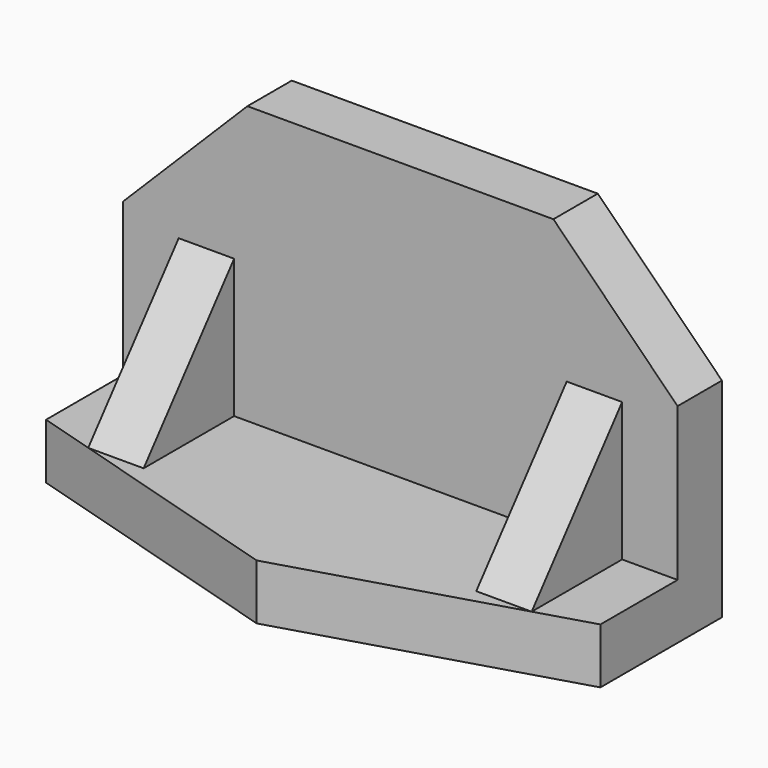
from build123d import *

# Parameters (mm, degrees)
F0_W      = 127
F0_H      = 76.2
F1_DEPTH  = 53.848
F2_W      = 41.148
F2_H      = 63.5
F3_DEPTH  = 127
F5_DEPTH  = 12.7
F7_DEPTH  = 12.7
F8_W      = 12.7
F8_H      = 25.908
F9_DEPTH  = 31.75
F11_DEPTH = 12.7
F13_DEPTH = 12.7


with BuildPart() as f1:
    # F0 (on Front) → F1 (new body)
    with BuildSketch(Plane.XZ):
        with Locations((-17.504597, -0.584449)):
            Rectangle(F0_W, F0_H)
    extrude(amount=F1_DEPTH)

    # F2 (on face) → F3 (cut)
    with BuildSketch(Plane.YZ.offset(45.995403)):
        with Locations((-33.274, 5.765551)):
            Rectangle(F2_W, F2_H)
    extrude(amount=-F3_DEPTH, mode=Mode.SUBTRACT)

    # F4 (on face) → F5 (cut)
    with BuildSketch(Plane.XZ.offset(12.7)):
        Polygon((45.995403, 9.067551), (45.995403, 37.515551), (17.547403, 37.515551), align=None)
        Polygon((-52.556597, 37.515551), (-81.004597, 37.515551), (-81.004597, 9.067551), align=None)
    extrude(amount=-F5_DEPTH, mode=Mode.SUBTRACT)

    # F6 (on face) → F7 (cut)
    with BuildSketch(Plane.XY.offset(-25.984449)):
        Polygon((45.995403, -34.798), (-17.504597, -53.848), (45.995403, -53.848), align=None)
        Polygon((-81.004597, -53.848), (-17.504597, -53.848), (-81.004597, -34.798), align=None)
    extrude(amount=-F7_DEPTH, mode=Mode.SUBTRACT)

    # F8 (on face) → F9 (join)
    with BuildSketch(Plane.XY.offset(-25.984449)):
        with Locations((26.945403, -25.654)):
            Rectangle(F8_W, F8_H)
        with Locations((-61.954597, -25.654)):
            Rectangle(F8_W, F8_H)
    extrude(amount=F9_DEPTH)

    # F10 (on face) → F11 (cut)
    with BuildSketch(Plane.YZ.offset(-55.604597)):
        Polygon((-38.608, -25.984449), (-12.7, 5.765551), (-38.608, 5.765551), align=None)
    extrude(amount=-F11_DEPTH, mode=Mode.SUBTRACT)

    # F12 (on face) → F13 (cut)
    with BuildSketch(Plane.YZ.offset(33.295403)):
        Polygon((-38.608, -25.984449), (-12.7, 5.765551), (-38.608, 5.765551), align=None)
    extrude(amount=-F13_DEPTH, mode=Mode.SUBTRACT)


solid = f1.part
